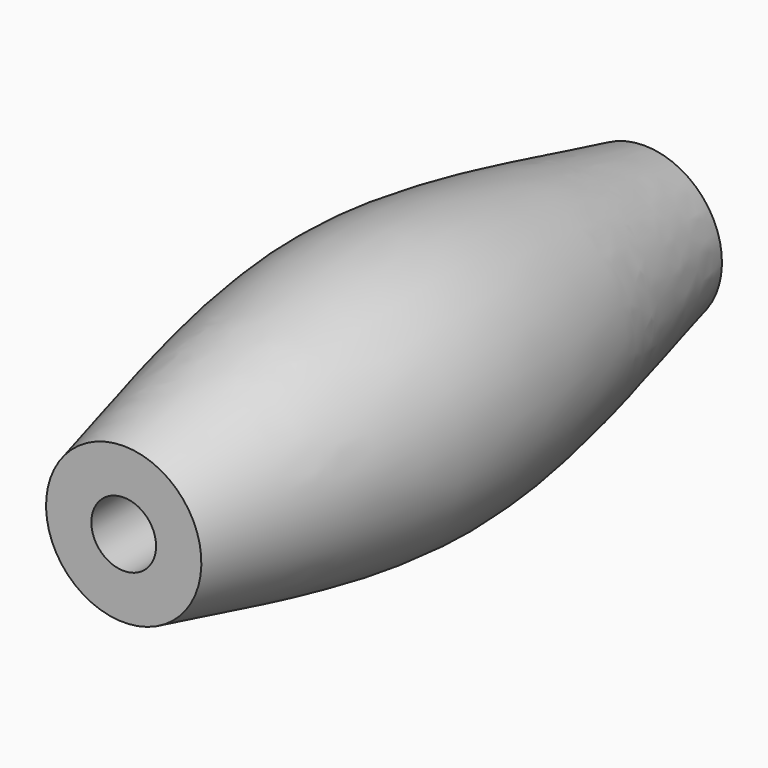
from build123d import *

# Parameters (mm, degrees)
F2_W     = 55.3
F2_H     = 6.6
F1_R     = 2.75
F4_DEPTH = 55.3


with BuildPart() as f3:
    # F2 (on Right) → F3 (revolve)
    with BuildSketch(Plane.YZ):
        with BuildLine():
            Line((-27.65, 6.6), (27.65, 6.6))
            add(Edge.make_bspline(
                [(27.65, 6.6), (18.4333333333, 8.6797243163), (0, 14.0202756837), (-18.4333333333, 8.6797243163), (-27.65, 6.6)],
                knots=[0, 0, 0, 0, 0.5, 1, 1, 1, 1], degree=3))
        make_face()
        with Locations((0, 3.3)):
            Rectangle(F2_W, F2_H)
    revolve(axis=Axis((0, -2.060322091, 0), (0, 1, 0)))

    # F1 (on Front) → F4 (cut, symmetric)
    with BuildSketch(Plane.XZ):
        Circle(F1_R)
    extrude(amount=F4_DEPTH, both=True, mode=Mode.SUBTRACT)


solid = f3.part
